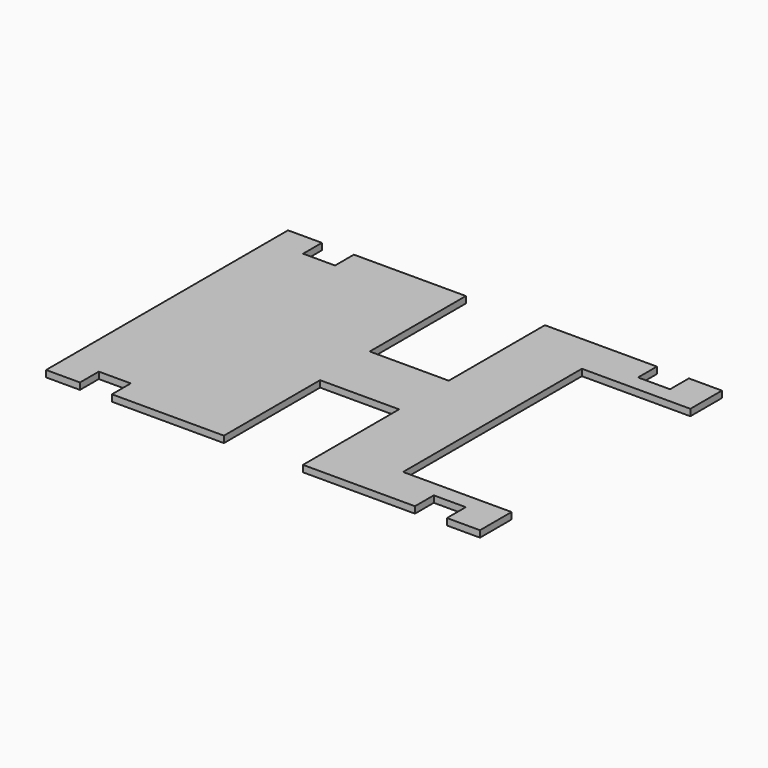
from build123d import *

# Parameters (mm, degrees)
F1_DEPTH = 12.7


with BuildPart() as f1:
    # F0 (on Top) → F1 (new body)
    with BuildSketch(Plane.XY):
        Polygon((-418.2990551353, 237.649252063), (-419.9009448647, 237.649252063), (-419.9009448647, -346.550747937), (-354.444026947, -346.550747937), (-354.444026947, -301.0607462526), (-292.6674187183, -301.0607462526), (-292.6674187183, -346.550747937), (-76.3335824013, -346.550747937), (-76.3335824013, -114.4193708897), (76.3335824013, -114.4193708897), (76.3335824013, -346.550747937), (292.6674187183, -346.550747937), (292.6674187183, -301.0607462526), (354.444026947, -301.0607462526), (354.444026947, -346.550747937), (418.2990551353, -346.550747937), (418.2990551353, -270.350747937), (208.7490551353, -270.350747937), (208.7490551353, 161.449252063), (418.2990551353, 161.449252063), (418.2990551353, 237.649252063), (354.444026947, 237.649252063), (354.444026947, 192.1592503786), (292.6674187183, 192.1592503786), (292.6674187183, 237.649252063), (76.3335824013, 237.649252063), (76.3335824013, 5.5178750157), (-76.3335824013, 5.5178750157), (-76.3335824013, 237.649252063), (-292.6674187183, 237.649252063), (-292.6674187183, 192.1592503786), (-354.444026947, 192.1592503786), (-354.444026947, 237.649252063), align=None)
    extrude(amount=F1_DEPTH)


solid = f1.part
